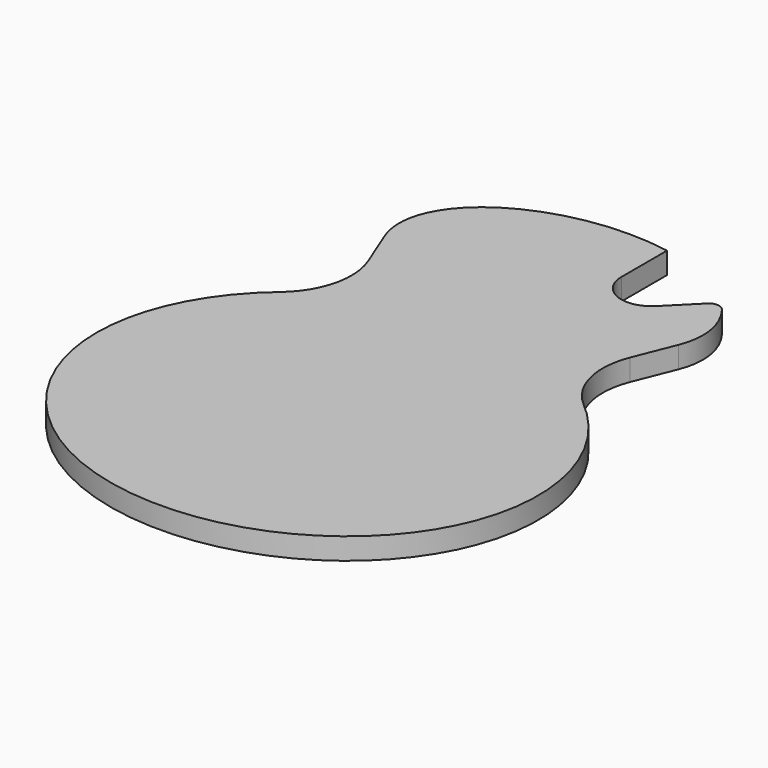
from build123d import *

# Parameters (mm, degrees)
F1_DEPTH = 16
F3_DEPTH = 16.0010001


with BuildPart() as f1:
    # F0 (on Top) → F1 (new body)
    with BuildSketch(Plane.XY):
        with BuildLine():
            Line((-112.66226952, 251.8166712858), (-111.9754360589, 252.3929929896))
            add(Edge.make_bspline(
                [(-111.9754360589, 252.3929929896), (-412.7656921999, 0), (0, 0)],
                knots=[2.3251429637, 2.3251429637, 2.3251429637, 4.7123889804, 4.7123889804, 4.7123889804], degree=2, weights=[1, 0.3682939518, 1]))
            add(Edge.make_bspline(
                [(0, 0), (412.7656921999, 0), (111.9754360589, 252.3929929896)],
                knots=[4.7123889804, 4.7123889804, 4.7123889804, 7.0996349971, 7.0996349971, 7.0996349971], degree=2, weights=[1, 0.3682939518, 1]))
            Line((111.9754360589, 252.3929929896), (112.66226952, 251.8166712858))
            ThreePointArc((112.66226952, 251.8166712858), (94.6746687559, 280.5421649016), (96.9426475533, 314.3587885784))
            Line((96.9426475533, 314.3587885784), (108.9452304972, 344.3939198079))
            add(Edge.make_bspline(
                [(108.9452304972, 344.3939198079), (145.1430722796, 434.975), (0, 434.975)],
                knots=[6.0311306592, 6.0311306592, 6.0311306592, 7.853981634, 7.853981634, 7.853981634], degree=2, weights=[1, 0.6126196987, 1]))
            add(Edge.make_bspline(
                [(0, 434.975), (-145.1430722796, 434.975), (-108.9452304972, 344.3939198079)],
                knots=[4.7123889804, 4.7123889804, 4.7123889804, 6.5352399551, 6.5352399551, 6.5352399551], degree=2, weights=[1, 0.6126196987, 1]))
            Line((-108.9452304972, 344.3939198079), (-96.9426475533, 314.3587885784))
            ThreePointArc((-96.9426475533, 314.3587885784), (-94.6746687559, 280.5421649016), (-112.66226952, 251.8166712858))
        make_face()
    extrude(amount=F1_DEPTH)

    # F2 (on face) → F3 (cut, through all)
    with BuildSketch(Plane.XY.offset(16)):
        with BuildLine():
            Line((69.951270473, 434.975), (30, 434.975))
            Line((30, 434.975), (30, 389.975))
            ThreePointArc((30, 389.975), (43.8896227718, 369.1877105185), (68.4099025767, 374.0650974233))
            Line((68.4099025767, 374.0650974233), (89.6354476377, 395.2906424843))
            ThreePointArc((89.6354476377, 395.2906424843), (95.4338918596, 397.4709793138), (100.894531022, 394.545702571))
            Line((100.894531022, 394.545702571), (69.951270473, 434.975))
        make_face()
    extrude(amount=-F3_DEPTH, mode=Mode.SUBTRACT)


solid = f1.part
